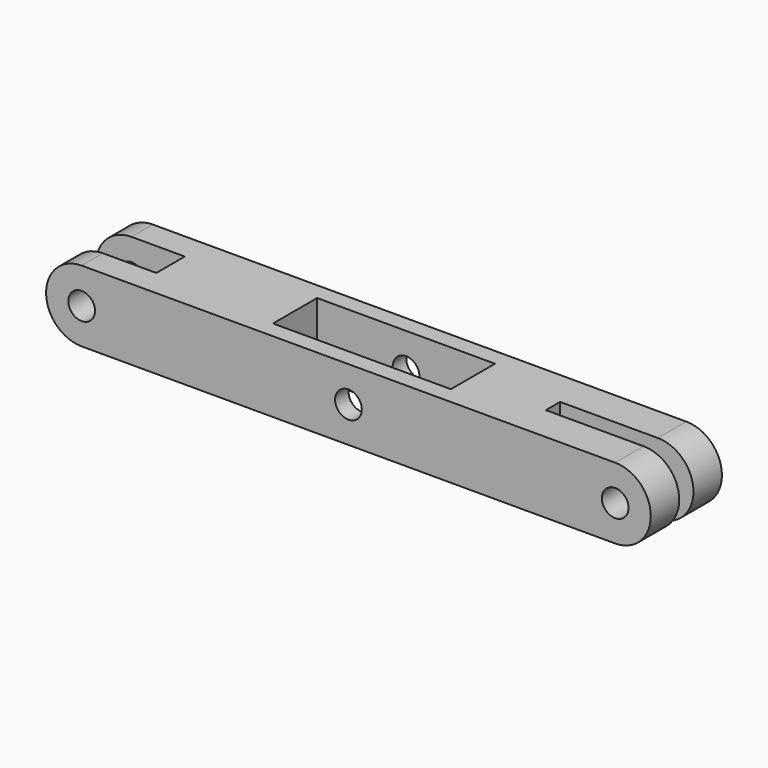
from build123d import *

# Parameters (mm, degrees)
F0_R      = 1.5
F1_DEPTH  = 5
F3_W      = 2
F3_H      = 8
F4_DEPTH  = 45
F6_W      = 20
F6_H      = 6.2
F7_DEPTH  = 25
F9_W      = 4
F9_H      = 8
F10_DEPTH = 40


with BuildPart() as f1:
    # F0 (on Front) → F1 (new body, symmetric)
    with BuildSketch(Plane.XZ):
        with BuildLine():
            ThreePointArc((30, -4), (34, 0), (30, 4))
            Line((30, 4), (-30, 4))
            ThreePointArc((-30, 4), (-34, 0), (-30, -4))
            Line((-30, -4), (30, -4))
        make_face()
        with Locations((-30, 0)):
            Circle(F0_R, mode=Mode.SUBTRACT)
        Circle(F0_R, mode=Mode.SUBTRACT)
        with Locations((30, 0)):
            Circle(F0_R, mode=Mode.SUBTRACT)
    extrude(amount=F1_DEPTH, both=True)

    # F3 (on offset) → F4 (cut)
    with BuildSketch(Plane.YZ.offset(64)):
        Rectangle(F3_W, F3_H)
    extrude(amount=-F4_DEPTH, mode=Mode.SUBTRACT)

    # F6 (on face) → F7 (cut)
    with BuildSketch(Plane.XY.offset(4)):
        Rectangle(F6_W, F6_H)
    extrude(amount=-F7_DEPTH, mode=Mode.SUBTRACT)

    # F9 (on offset) → F10 (cut)
    with BuildSketch(Plane.YZ.offset(-64)):
        Rectangle(F9_W, F9_H)
    extrude(amount=F10_DEPTH, mode=Mode.SUBTRACT)


solid = f1.part
